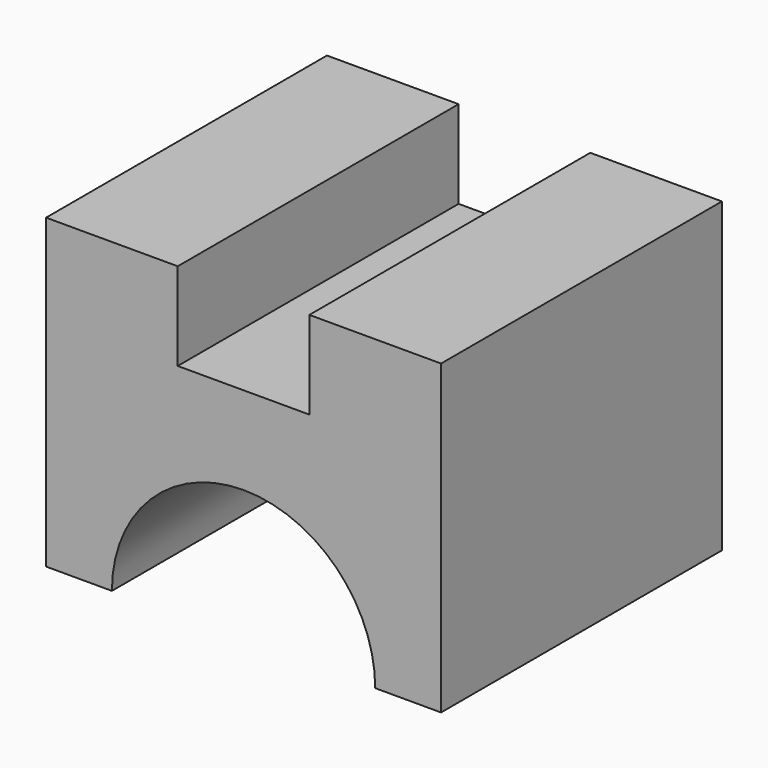
from build123d import *

# Parameters (mm, degrees)
F0_W     = 45
F0_H     = 40
F1_DEPTH = 25
F2_W     = 15
F2_H     = 40
F3_DEPTH = 10
F5_DEPTH = 40.001


with BuildPart() as f1:
    # F0 (on Top) → F1 (new body)
    with BuildSketch(Plane.XY):
        with Locations((-4.421229, -8.381445)):
            Rectangle(F0_W, F0_H)
    extrude(amount=F1_DEPTH)

    # F2 (on face) → F3 (join)
    with BuildSketch(Plane.XY.offset(25)):
        with Locations((10.578771, -8.381445)):
            Rectangle(F2_W, F2_H)
        with Locations((-19.421229, -8.381445)):
            Rectangle(F2_W, F2_H)
    extrude(amount=F3_DEPTH)

    # F4 (on face) → F5 (cut, through all)
    with BuildSketch(Plane.XZ.offset(28.381445)):
        with BuildLine():
            Line((-19.421229, 0), (10.578771, 0))
            ThreePointArc((10.578771, 0), (-4.421229, 15), (-19.421229, 0))
        make_face()
    extrude(amount=-F5_DEPTH, mode=Mode.SUBTRACT)


solid = f1.part
